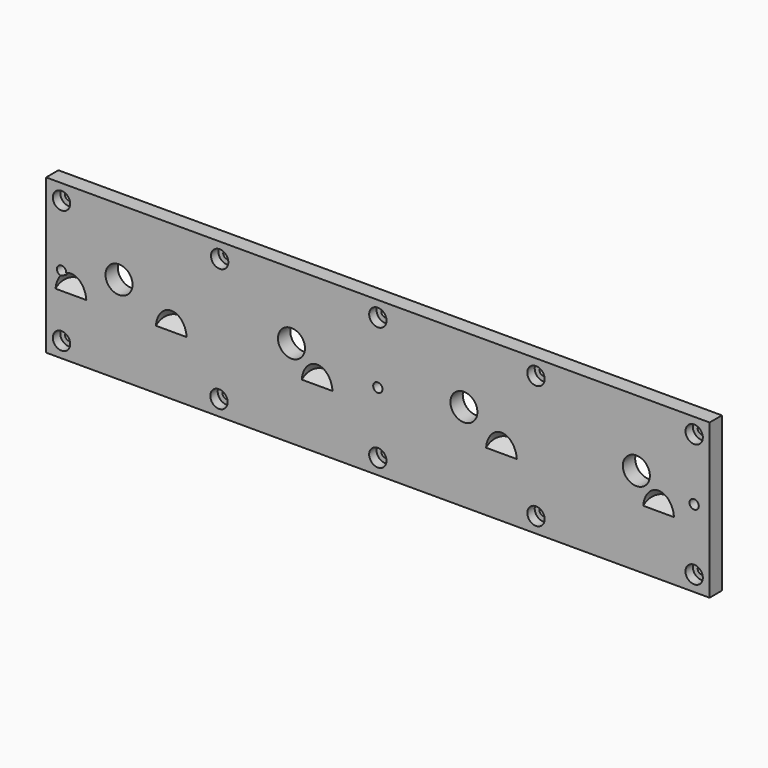
from build123d import *

# Parameters (mm, degrees)
F0_W           = 430
F0_H           = 100
F1_DEPTH       = 10
F3_D           = 17.5
F4_D           = 5
F4_CBORE_D     = 11.25
F4_CBORE_DEPTH = 6
F5_D           = 6
F8_R           = 10
F9_DEPTH       = 10


with BuildPart() as f1:
    # F0 (on Front) → F1 (new body)
    with BuildSketch(Plane.XZ):
        with Locations((215, 50)):
            Rectangle(F0_W, F0_H)
    extrude(amount=F1_DEPTH)

    # F3 (through all)
    with Locations(Plane.XZ.offset(10)):
        with Locations((47.26, 57.03), (159.02, 57.03), (270.78, 57.03), (382.54, 57.03)):
            Hole(F3_D / 2)

    # F4 (through all)
    with Locations(Plane.XZ.offset(10)):
        with Locations((10, 90), (112.5, 90), (215, 90), (317.5, 90), (420, 90), (420, 10), (317.5, 10), (215, 10), (112.05, 10), (10, 10)):
            CounterBoreHole(F4_D / 2, F4_CBORE_D / 2, F4_CBORE_DEPTH)

    # F5 (through all)
    with Locations(Plane.XZ.offset(10)):
        with Locations((10, 50), (215, 50), (420, 50)):
            Hole(F5_D / 2)

    # F8 (on line) → F9 (cut)
    with BuildSketch(Plane(origin=(0, -24.8257901338, 20.831311345), x_dir=(-1, 0, 0), z_dir=(0, 0.7660444431, -0.6427876097))):
        with Locations((-16.1151010543, 22.157035768)):
            Circle(F8_R)
        with Locations((-81.1700448394, 22.157035768)):
            Circle(F8_R)
        with Locations((-175.6755411625, 22.157035768)):
            Circle(F8_R)
        with Locations((-295.1289117336, 22.157035768)):
            Circle(F8_R)
        with Locations((-396.9926536083, 22.157035768)):
            Circle(F8_R)
    extrude(amount=-F9_DEPTH, mode=Mode.SUBTRACT)


solid = f1.part
